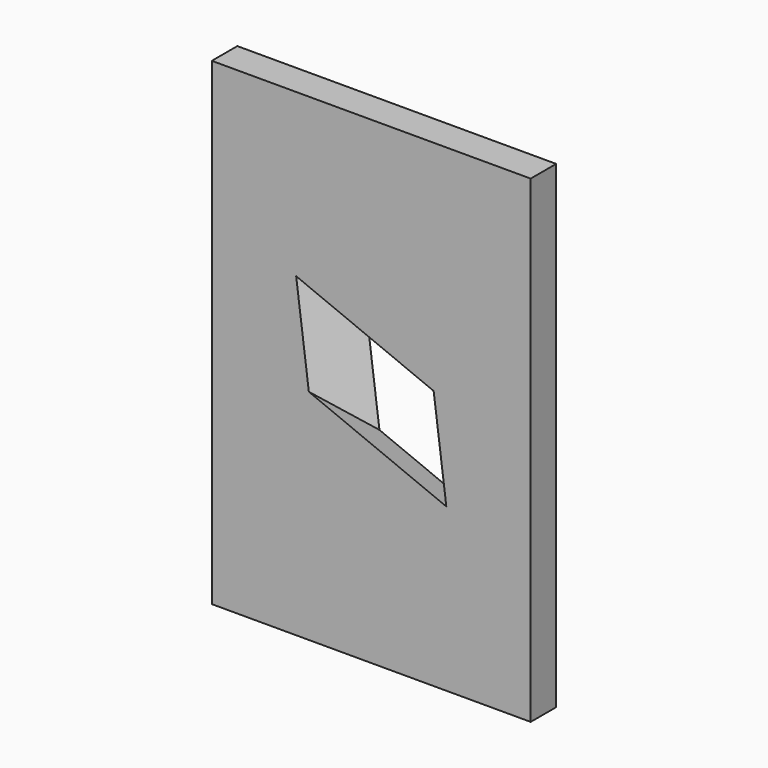
from build123d import *

# Parameters (mm, degrees)
F0_W     = 100
F0_H     = 150
F1_DEPTH = 10
F7_DEPTH = 177.856339


with BuildPart() as f1:
    # F0 (on Front) → F1 (new body)
    with BuildSketch(Plane.XZ):
        Rectangle(F0_W, F0_H)
    extrude(amount=-F1_DEPTH)

    # F6 (on face) → F7 (cut, through all)
    with BuildSketch(Plane(origin=(-70.710678, -50, 50), x_dir=(0.408248, -0.866025, -0.288675), z_dir=(-0.707107, -0.5, 0.5))):
        Polygon((-16.583499, 6.122708), (-6.122708, -16.583499), (16.583499, -6.122708), (6.122708, 16.583499), align=None)
    extrude(amount=-F7_DEPTH, mode=Mode.SUBTRACT)


solid = f1.part
